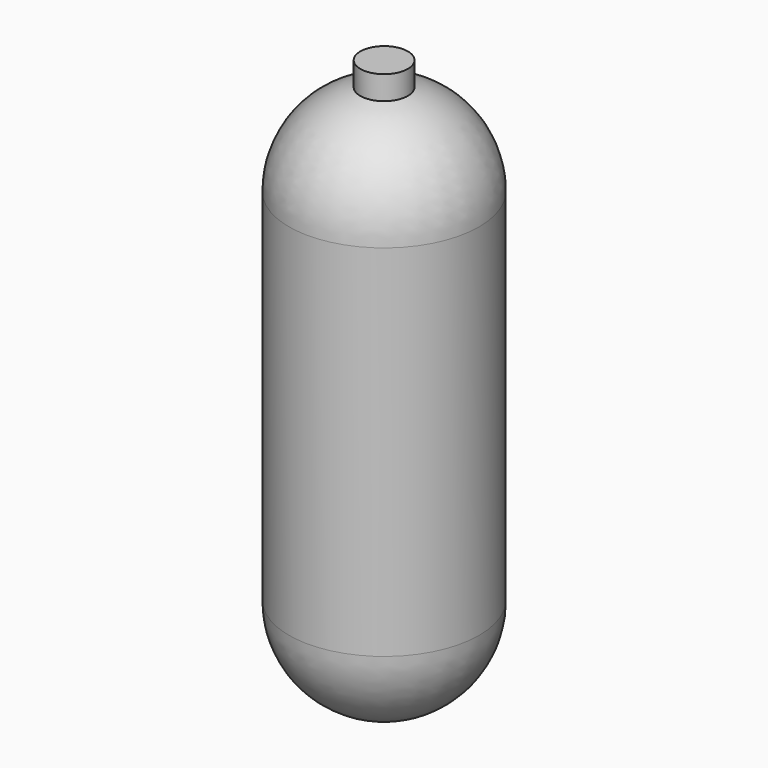
from build123d import *


with BuildPart() as f1:
    # F0 (on Front) → F1 (revolve)
    with BuildSketch(Plane.XZ):
        with BuildLine():
            Line((12.7, 152.4), (0, 152.4))
            Line((0, 152.4), (0, -152.4))
            ThreePointArc((0, -152.4), (35.921024, -137.521024), (50.8, -101.6))
            Line((50.8, -101.6), (50.8, 90.513112))
            ThreePointArc((50.8, 90.513112), (40.160926, 121.621631), (12.7, 139.7))
            Line((12.7, 139.7), (12.7, 152.4))
        make_face()
    revolve(axis=Axis((0, 0, 0), (0, 0, -1)))


solid = f1.part
